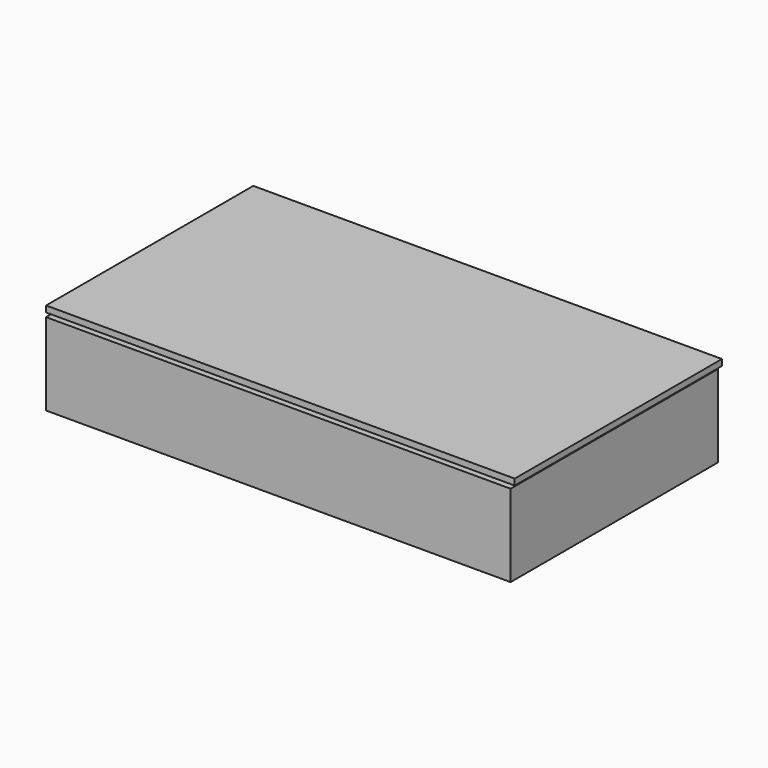
from build123d import *

# Parameters (mm, degrees)
SKETCH_W      = 110
SKETCH_H      = 60
PAD_DEPTH     = 2
SKETCH001_W   = 113
SKETCH001_H   = 63
SKETCH001_W_2 = 110
SKETCH001_H_2 = 60
PAD001_DEPTH  = 20
SKETCH002_R   = 2.6
PAD002_DEPTH  = 2.1
PAD003_DEPTH  = 61.5
PAD004_DEPTH  = 111.5
POCKET_DEPTH  = 13.7
PAD005_DEPTH  = 1.5
SKETCH007_R   = 3.6
SKETCH007_R_2 = 2.6
PAD006_DEPTH  = 2.1


with BuildPart() as body:
    # Sketch → Pad (new body)
    with BuildSketch(Plane.XY):
        Rectangle(SKETCH_W, SKETCH_H)
    extrude(amount=PAD_DEPTH)

    # Sketch001 → Pad001 (join)
    with BuildSketch(Plane.XY):
        Rectangle(SKETCH001_W, SKETCH001_H)
        Rectangle(SKETCH001_W_2, SKETCH001_H_2, mode=Mode.SUBTRACT)
    extrude(amount=PAD001_DEPTH)

    # Sketch002 (on DatumPlane) → Pad002 (join)
    with BuildSketch(Plane.XY.offset(17.8)):
        with BuildLine():
            Line((-47.6, -26.2), (-47.6, -30))
            Line((-47.6, -30), (-55, -30))
            Line((-55, -30), (-55, -22.6))
            Line((-55, -22.6), (-51.2, -22.6))
            ThreePointArc((-47.6, -26.2), (-48.654416, -23.654416), (-51.2, -22.6))
        make_face()
        with Locations((-51.2, -26.2)):
            Circle(SKETCH002_R, mode=Mode.SUBTRACT)
        with BuildLine():
            ThreePointArc((-51.2, 22.6), (-48.654416, 23.654416), (-47.6, 26.2))
            Line((-47.6, 26.2), (-47.6, 30))
            Line((-55, 30), (-47.6, 30))
            Line((-55, 22.6), (-55, 30))
            Line((-51.2, 22.6), (-55, 22.6))
        make_face()
        with Locations((-51.2, 26.2)):
            Circle(SKETCH002_R, mode=Mode.SUBTRACT)
    pad002 = extrude(amount=-PAD002_DEPTH)

    # Mirrored: Pad002 across YZ
    add(pad002.mirror(Plane.YZ))

    # Sketch003 (on Face10 of Mirrored) → Pad003 (join)
    with BuildSketch(Plane.XZ.offset(-30)):
        Polygon((-47.6, 15.7), (-55, 15.7), (-55, 8.3), align=None)
        Polygon((47.6, 15.7), (55, 15.7), (55, 8.3), align=None)
    extrude(amount=PAD003_DEPTH)

    # Sketch004 (on Face16 of Pad003) → Pad004 (join)
    with BuildSketch(Plane(origin=(55, 0, 0), x_dir=(0, -1, 0), z_dir=(-1, 0, 0))):
        Polygon((22.6, 15.7), (30, 8.3), (30, 15.7), align=None)
        Polygon((-22.6, 15.7), (-30, 15.7), (-30, 8.3), align=None)
    extrude(amount=PAD004_DEPTH)

    # Sketch008 (on DatumPlane) → Pocket (cut)
    with BuildSketch(Plane.XY.offset(15.7)):
        with BuildLine():
            Line((-51.2, 22.6), (-55, 22.6))
            Line((-55, -22.6), (-55, 22.6))
            Line((-55, -22.6), (-51.2, -22.6))
            ThreePointArc((-47.6, -26.2), (-48.654416, -23.654416), (-51.2, -22.6))
            Line((-47.6, -26.2), (-47.6, -30))
            Line((47.6, -30), (-47.6, -30))
            Line((47.6, -26.2), (47.6, -30))
            ThreePointArc((51.2, -22.6), (48.654416, -23.654416), (47.6, -26.2))
            Line((51.2, -22.6), (55, -22.6))
            Line((55, 22.6), (55, -22.6))
            Line((51.2, 22.6), (55, 22.6))
            ThreePointArc((47.6, 26.2), (48.654416, 23.654416), (51.2, 22.6))
            Line((47.6, 30), (47.6, 26.2))
            Line((-47.6, 30), (47.6, 30))
            Line((-47.6, 26.2), (-47.6, 30))
            ThreePointArc((-51.2, 22.6), (-48.654416, 23.654416), (-47.6, 26.2))
        make_face()
    extrude(amount=-POCKET_DEPTH, mode=Mode.SUBTRACT)


with BuildPart() as body001:
    # Sketch006 → Pad005 (new body)
    with BuildSketch(Plane.XY.offset(50)):
        Polygon((-56.5, 31.5), (-56.5, -31.5), (56.5, -31.5), (57.5, -31.5), (57.5, 31.5), (56.5, 31.5), align=None)
    extrude(amount=PAD005_DEPTH)

    # Sketch007 (on DatumPlane) → Pad006 (join)
    with BuildSketch(Plane(origin=(0, 0, 50), x_dir=(1, 0, 0), z_dir=(0, 0, -1))):
        with Locations((-51.2, 26.2)):
            Circle(SKETCH007_R)
        with Locations((-51.2, 26.2)):
            Circle(SKETCH007_R_2, mode=Mode.SUBTRACT)
        with Locations((51.2, 26.2)):
            Circle(SKETCH007_R)
        with Locations((51.2, 26.2)):
            Circle(SKETCH007_R_2, mode=Mode.SUBTRACT)
        with Locations((51.2, -26.2)):
            Circle(SKETCH007_R)
        with Locations((51.2, -26.2)):
            Circle(SKETCH007_R_2, mode=Mode.SUBTRACT)
        with Locations((-51.2, -26.2)):
            Circle(SKETCH007_R)
        with Locations((-51.2, -26.2)):
            Circle(SKETCH007_R_2, mode=Mode.SUBTRACT)
    extrude(amount=PAD006_DEPTH)


with BuildPart() as body001_1:
    # Body001 placement: moved
    add(body001.part.moved(Location((0, 0, -29))))


solid = Compound([body.part, body001_1.part])
